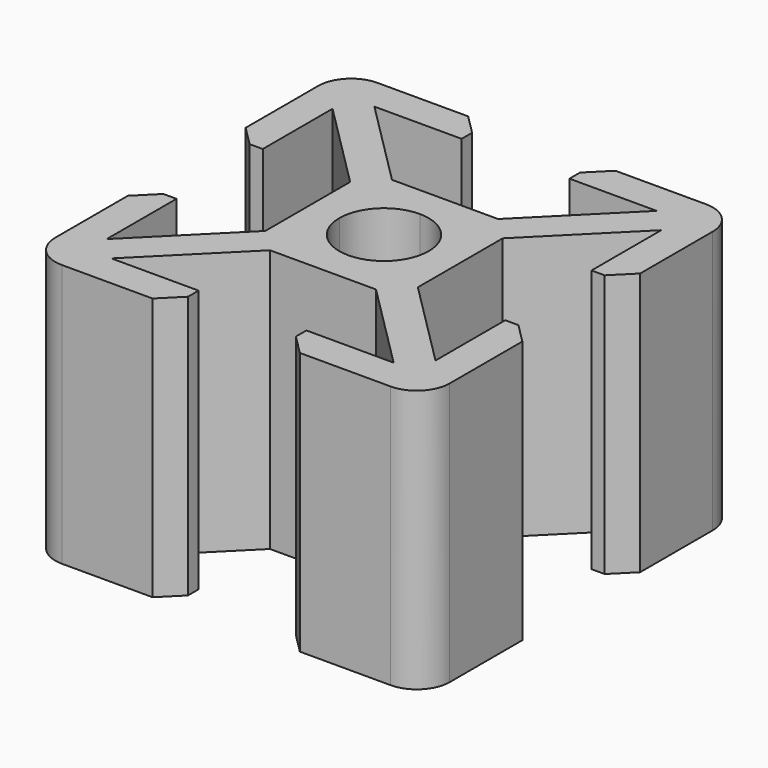
from build123d import *

# Parameters (mm, degrees)
PAD_DEPTH            = 20
POLARPATTERN_COUNT   = 4
FILLET_R             = 2.5
CHAMFER_SIZE         = 1.5
BODY_PLACEMENT_ANGLE = 270


with BuildPart() as part:
    # Sketch → Pad (new body)
    with BuildSketch(Plane.XZ):
        with BuildLine():
            Line((0, 5.8), (4.032233, 5.8))
            Line((4.032233, 5.8), (10.732233, 12.5))
            Line((10.732233, 12.5), (4.1, 12.5))
            Line((4.1, 12.5), (4.1, 15))
            Line((4.1, 15), (15, 15))
            Line((15, 15), (15, 4.1))
            Line((15, 4.1), (12.5, 4.1))
            Line((12.5, 4.1), (12.5, 10.732233))
            Line((5.8, 4.032233), (12.5, 10.732233))
            Line((5.8, 4.032233), (5.8, 0))
            Line((3.4, 0), (5.8, 0))
            ThreePointArc((3.4, 0), (2.404163, 2.404163), (0, 3.4))
            Line((0, 5.8), (0, 3.4))
        make_face()
    pad = extrude(amount=PAD_DEPTH)

    # PolarPattern: Pad ×4 about axis
    polarpattern_axis = Axis((0, 0, 0), (0, -1, 0))
    for i in range(1, POLARPATTERN_COUNT):
        add(pad.rotate(polarpattern_axis, i * 360 / POLARPATTERN_COUNT))

    # Fillet
    fillet_edges = [part.edges().sort_by_distance(p)[0] for p in [
        (-15, -10, 15),
        (15, -10, 15),
        (15, -10, -15),
        (-15, -10, -15),
    ]]
    fillet(fillet_edges, radius=FILLET_R)

    # Chamfer
    chamfer_edges = [part.edges().sort_by_distance(p)[0] for p in [
        (4.1, -10, 15),
        (-4.1, -10, 15),
        (-15, -10, 4.1),
        (-15, -10, -4.1),
        (-4.1, -10, -15),
        (15, -10, -4.1),
        (4.1, -10, -15),
        (15, -10, 4.1),
    ]]
    chamfer(chamfer_edges, length=CHAMFER_SIZE)


with BuildPart() as part_1:
    # Body placement: moved
    add(part.part.rotate(Axis((0, 0, 0), (1, 0, 0)), BODY_PLACEMENT_ANGLE))


solid = part_1.part
